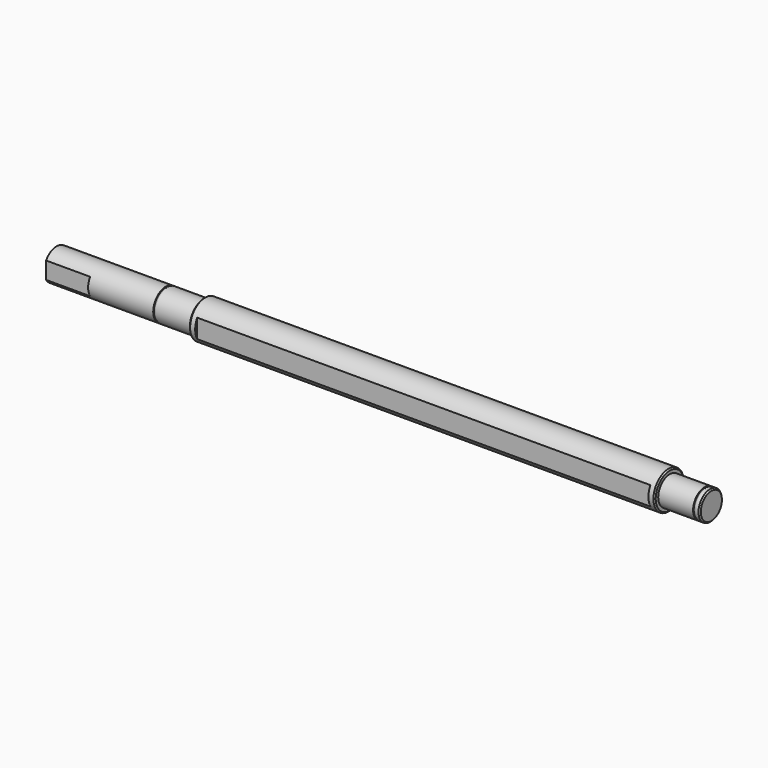
from build123d import *

# Parameters (mm, degrees)
F3_DEPTH = 180
F5_DEPTH = 35
F6_SIZE  = 1


with BuildPart() as f1:
    # F0 (on Front) → F1 (revolve)
    with BuildSketch(Plane.XZ):
        Polygon((-302, 6.5), (-302, 0), (-185, 0), (175, 0), (218, 0), (218, 11.5), (214, 11.5), (214, 10.9), (212.7, 10.9), (212.7, 11.5), (185, 11.5), (185, 15), (-185, 15), (-185, 12.5), (-214, 12.5), (-214, 11.9), (-215.3, 11.9), (-215.3, 12.5), (-302, 12.5), align=None)
    revolve(axis=Axis((-5, 0, 0), (1, 0, 0)))

    # F2 (on Right) → F3 (cut, symmetric)
    with BuildSketch(Plane.YZ):
        with BuildLine():
            Line((-12.9903810568, -7.5), (-12.9903810568, 7.5))
            ThreePointArc((-12.9903810568, 7.5), (-15, 0), (-12.9903810568, -7.5))
        make_face()
        with BuildLine():
            ThreePointArc((12.9903810568, -7.5), (15, 0), (12.9903810568, 7.5))
            Line((12.9903810568, 7.5), (12.9903810568, -7.5))
        make_face()
    extrude(amount=F3_DEPTH, both=True, mode=Mode.SUBTRACT)

    # F4 (on face) → F5 (cut)
    with BuildSketch(Plane(origin=(-302, 0, 0), x_dir=(0, -1, 0), z_dir=(-1, 0, 0))):
        with BuildLine():
            Line((-10.5, -6.7823299831), (-10.5, 6.7823299831))
            ThreePointArc((-10.5, 6.7823299831), (-12.5, 0), (-10.5, -6.7823299831))
        make_face()
        with BuildLine():
            ThreePointArc((12.5, 0), (11.9895788083, 3.5355339059), (10.5, 6.7823299831))
            Line((10.5, 6.7823299831), (10.5, -6.7823299831))
            ThreePointArc((10.5, -6.7823299831), (11.9895788083, -3.5355339059), (12.5, 0))
        make_face()
    extrude(amount=-F5_DEPTH, mode=Mode.SUBTRACT)

    # F6
    f6_edges = [f1.edges().sort_by_distance(p)[0] for p in [
        (-185, 0, -15),
        (185, 0, -15),
        (218, 0, -11.5),
    ]]
    chamfer(f6_edges, length=F6_SIZE)


solid = f1.part
